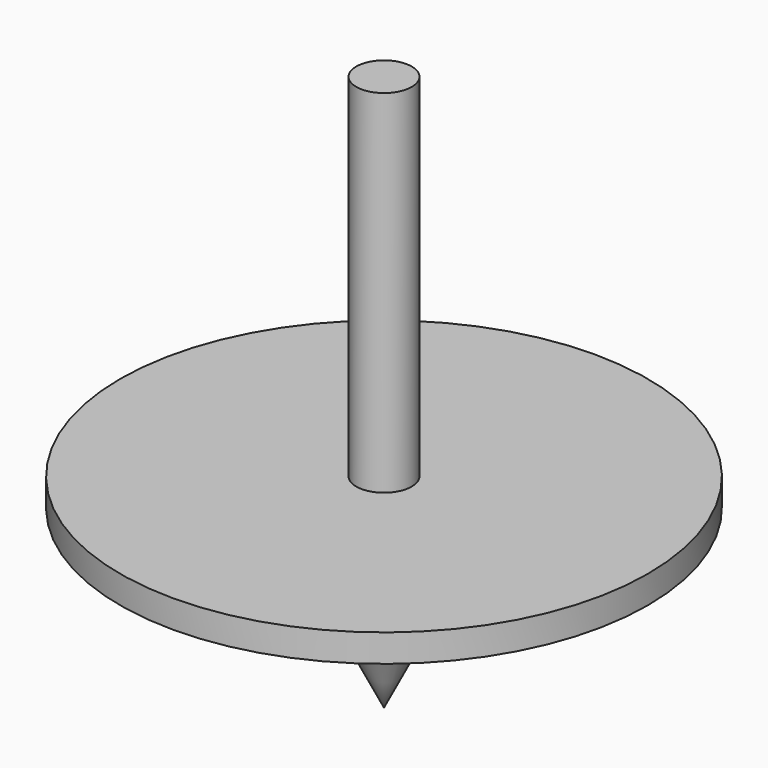
from build123d import *

# Parameters (mm, degrees)
F0_W = 2
F0_H = 25.4


with BuildPart() as f1:
    # F0 (on Front) → F1 (revolve)
    with BuildSketch(Plane.XZ):
        Polygon((0, -12.7), (0, 0), (-6.344236, 0), align=None)
        Polygon((-6.344236, 0), (0, 0), (0, 2), (-2, 2), (-19.05, 2), (-19.05, 0), align=None)
        with Locations((-1, 14.7)):
            Rectangle(F0_W, F0_H)
    revolve(axis=Axis((0, 0, 14.7), (0, 0, 1)))


solid = f1.part
